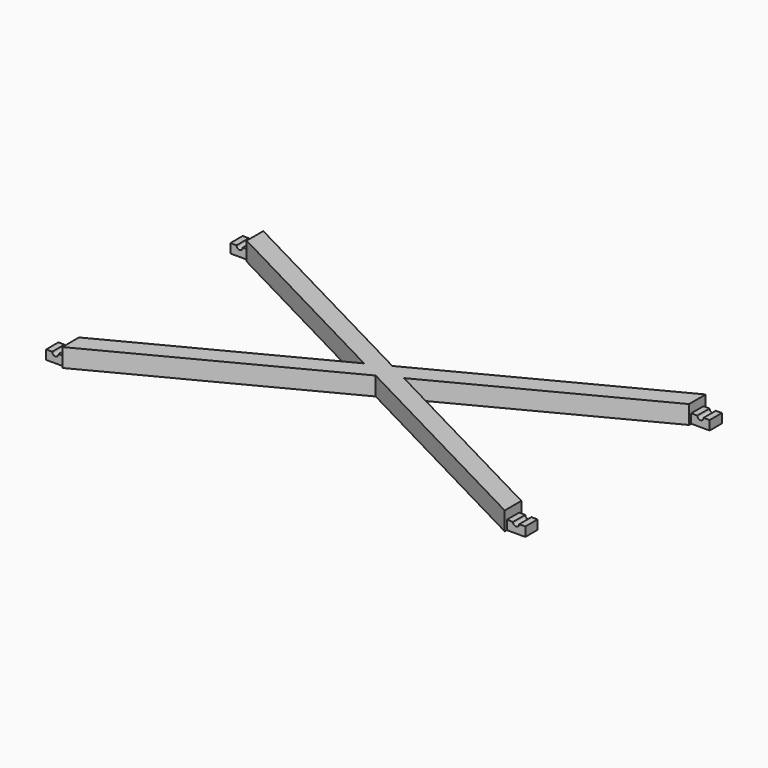
from build123d import *

# Parameters (mm, degrees)
F1_DEPTH = 6
F2_W     = 6
F2_H     = 5
F3_DEPTH = 3
F4_R     = 1
F5_DEPTH = 100


with BuildPart() as f1:
    # F0 (on Top) → F1 (new body)
    with BuildSketch(Plane.XY):
        Polygon((0, 3.382515), (-72, 40.882515), (-72, 34.117485), (-6.494428, 0), (-72, -34.117485), (-72, -40.882515), (0, -3.382515), (72, -40.882515), (72, -34.117485), (6.494428, 0), (72, 34.117485), (72, 40.882515), align=None)
    extrude(amount=F1_DEPTH)

    # F2 (on Top) → F3 (join)
    with BuildSketch(Plane.XY):
        with Locations((-75, 37.5)):
            Rectangle(F2_W, F2_H)
        with Locations((-75, -37.5)):
            Rectangle(F2_W, F2_H)
        with Locations((75, -37.5)):
            Rectangle(F2_W, F2_H)
        with Locations((75, 37.5)):
            Rectangle(F2_W, F2_H)
    extrude(amount=F3_DEPTH)

    # F4 (on face) → F5 (cut)
    with BuildSketch(Plane.XZ.offset(40)):
        with BuildLine():
            ThreePointArc((-76, 3), (-75, 2), (-74, 3))
            Line((-74, 3), (-76, 3))
        make_face()
        with Locations((75, 3)):
            Circle(F4_R)
    extrude(amount=-F5_DEPTH, mode=Mode.SUBTRACT)


solid = f1.part
